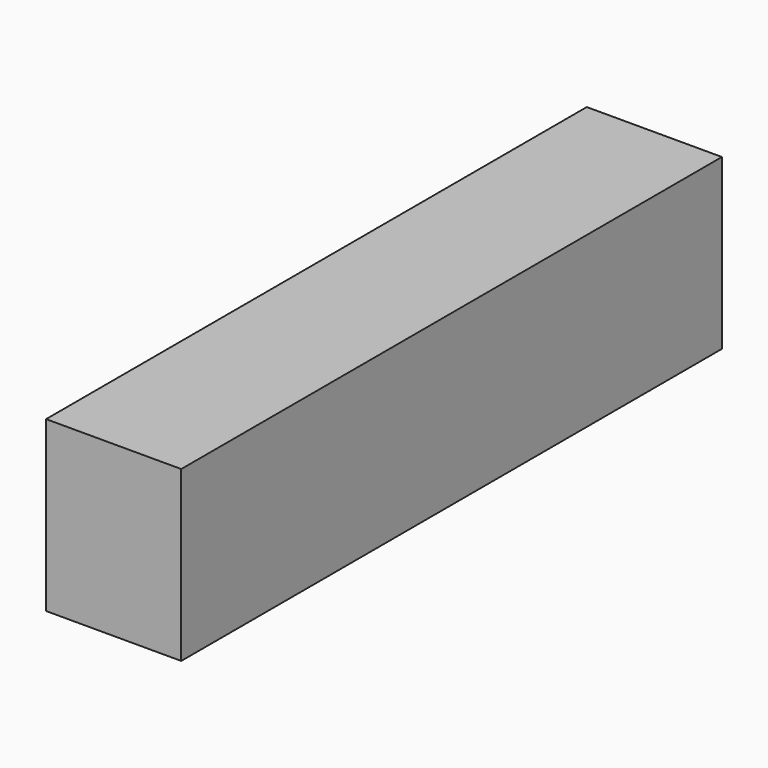
from build123d import *

# Parameters (mm, degrees)
SKETCH_W  = 400
SKETCH_H  = 500
PAD_DEPTH = 2000


with BuildPart() as part:
    # Sketch → Pad (new body)
    with BuildSketch(Plane.XZ):
        Rectangle(SKETCH_W, SKETCH_H)
    extrude(amount=-PAD_DEPTH)


solid = part.part
